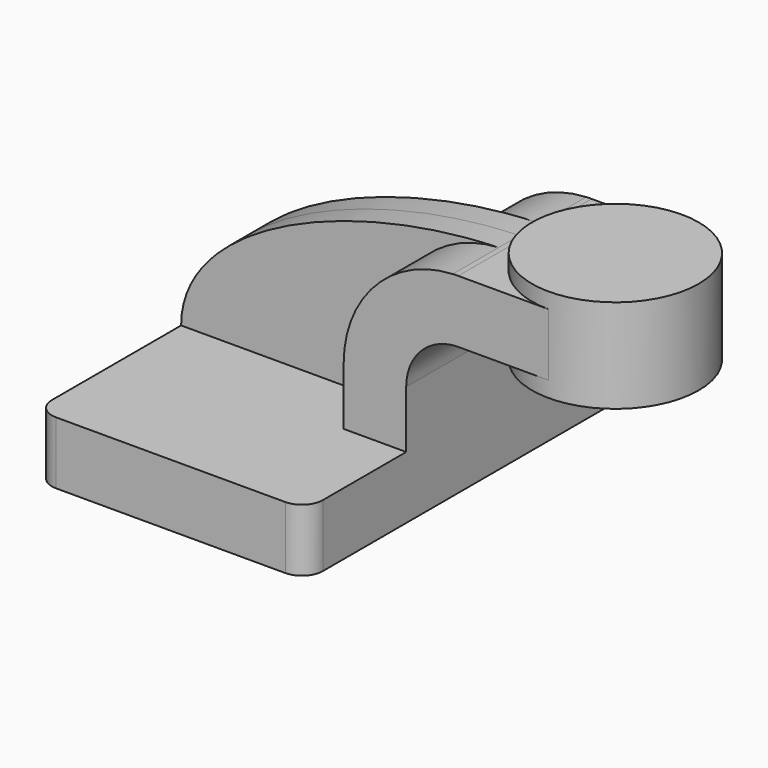
from build123d import *

# Parameters (mm, degrees)
F1_DEPTH = 63.5
F2_DEPTH = 7.9375
F3_R     = 6.35
F0_W     = 25.4
F0_H     = 19.05
F4_DEPTH = 25.4


with BuildPart() as f1:
    # F0 (on Front) → F1 (new body, symmetric)
    with BuildSketch(Plane.XZ):
        Polygon((22.225, 9.525), (-41.275, 9.525), (-41.275, -9.525), (41.275, -9.525), (41.275, 9.525), align=None)
    extrude(amount=F1_DEPTH, both=True)

    # F0 (on Front) → F2 (join, symmetric)
    with BuildSketch(Plane.XZ):
        with BuildLine():
            add(Edge.make_bspline(
                [(-41.275, 9.525), (-41.2262459326, 39.0642297135), (9.9785681568, 60.561025247), (55.4924441738, 61.8858436616)],
                knots=[0, 0, 0, 0, 110.1650615003, 110.1650615003, 110.1650615003, 110.1650615003], degree=3))
            Line((-41.275, 9.525), (22.225, 9.525))
            Line((22.225, 9.525), (22.225, 27.0002))
            ThreePointArc((22.225, 27.0002), (31.8750542807, 51.1027464191), (55.4924441738, 61.8858436616))
        make_face()
    extrude(amount=F2_DEPTH, both=True)

    # F3
    f3_edges = [f1.edges().sort_by_distance(p)[0] for p in [
        (-41.275, -63.5, 0),
        (41.275, -63.5, 0),
        (41.275, 63.5, 0),
        (-41.275, 63.5, 0),
    ]]
    fillet(f3_edges, radius=F3_R)

    # F0 (on Front) → F4 (join, symmetric)
    with BuildSketch(Plane.XZ):
        with BuildLine():
            Line((22.225, 27.0002), (22.225, 9.525))
            Line((22.225, 9.525), (41.275, 9.525))
            Line((41.275, 9.525), (41.275, 27.0002))
            ThreePointArc((41.275, 27.0002), (45.9246798487, 38.2255201513), (57.15, 42.8752))
            Line((57.15, 42.8752), (59.2859117566, 42.8752))
            Line((59.2859117566, 42.8752), (59.2859117566, 61.9252))
            Line((59.2859117566, 61.9252), (57.15, 61.9252))
            add(Edge.make_bspline(
                [(55.4924441738, 61.8858436616), (56.0458381711, 61.9019518603), (56.5983908409, 61.9150779074), (57.15, 61.9252)],
                knots=[110.1650615003, 110.1650615003, 110.1650615003, 110.1650615003, 111.5045361635, 111.5045361635, 111.5045361635, 111.5045361635], degree=3))
            ThreePointArc((55.4924441738, 61.8858436616), (31.8750542807, 51.1027464191), (22.225, 27.0002))
        make_face()
        with Locations((71.9859117566, 52.4002)):
            Rectangle(F0_W, F0_H)
    extrude(amount=F4_DEPTH, both=True)

    # F0 (on Front) → F5 (revolve)
    with BuildSketch(Plane.XZ):
        Polygon((84.6859117566, 66.675), (84.6859117566, 61.9252), (84.6859117566, 42.8752), (84.6859117566, 38.1), (110.0859117566, 38.1), (110.0859117566, 66.675), align=None)
    revolve(axis=Axis((84.6859117566, 0, 52.3875), (0, 0, 1)))


solid = f1.part
